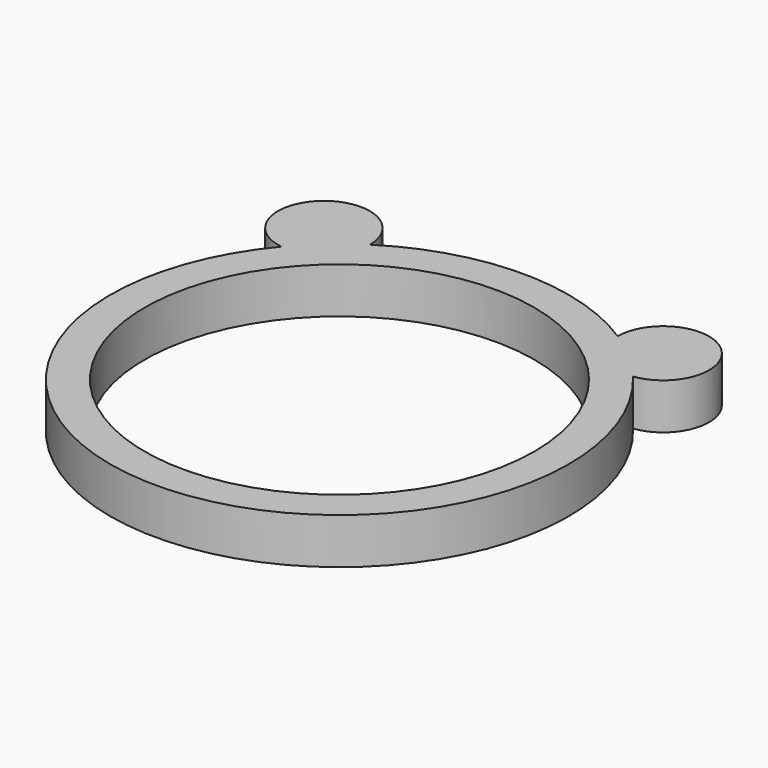
from build123d import *

# Parameters (mm, degrees)
CYLINDER001_R     = 8.5
CYLINDER001_DEPTH = 10
CYLINDER_R        = 10
CYLINDER_DEPTH    = 2
CYLINDER002_R     = 2
CYLINDER002_DEPTH = 2


with BuildPart() as cilindro001:
    # Cylinder001 → Cylinder001 (new body)
    with BuildSketch(Plane.XY.offset(-4)):
        Circle(CYLINDER001_R)
    extrude(amount=CYLINDER001_DEPTH)


with BuildPart() as cut:
    # Cylinder → Cylinder (new body)
    with BuildSketch(Plane.XY):
        Circle(CYLINDER_R)
    extrude(amount=CYLINDER_DEPTH)

    # Cut: cut Cilindro001
    add(cilindro001.part, mode=Mode.SUBTRACT)


with BuildPart() as obj1:
    # Cylinder002 → Cylinder002 (new body)
    with BuildSketch(Plane(origin=(-7.4, 8.4, 0), x_dir=(1, 0, 0), z_dir=(0, 0, 1))):
        Circle(CYLINDER002_R)
    extrude(amount=CYLINDER002_DEPTH)


with BuildPart() as part_mirroring:
    # Part__Mirroring: instance of obj1
    add(obj1.part.mirror(Plane(origin=(0, 0, 0), x_dir=(0, -1, 0), z_dir=(1, 0, 0))))


with BuildPart() as obj2:
    # Fusion base: copy of obj1
    add(obj1.part)

    # Fusion: union Part__Mirroring
    add(part_mirroring.part)

    # Fusion001: union Cut
    add(cut.part)


solid = obj2.part
